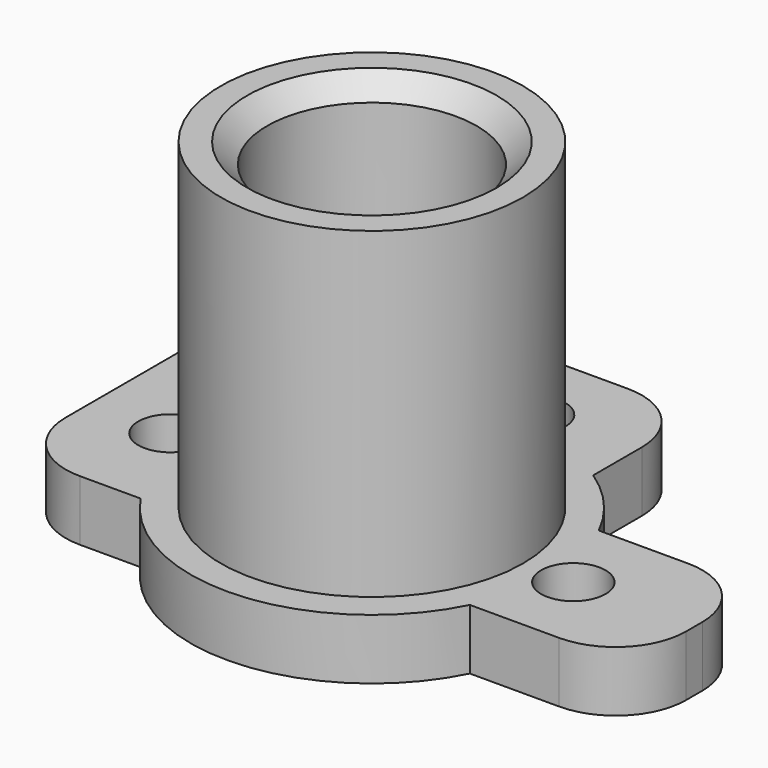
from build123d import *

# Parameters (mm, degrees)
SKETCH_R        = 9
SKETCH_R_2      = 1.6
PAD_DEPTH       = 3
SKETCH001_R     = 7.5
SKETCH001_R_2   = 5.2
PAD001_DEPTH    = 16
SKETCH002_W     = 19
SKETCH002_H     = 19
PAD002_DEPTH    = 3
SKETCH003_R     = 1.6
POCKET_DEPTH    = 3.001
SKETCH004_W     = 11
SKETCH004_H     = 8
PAD003_DEPTH    = 3
SKETCH005_R     = 1.6
POCKET001_DEPTH = 3.001
SKETCH007_R     = 5.2
SKETCH007_R_2   = 1.6
PAD004_DEPTH    = 4
SKETCH008_R     = 5.2
POCKET002_DEPTH = 4
CHAMFER_SIZE    = 1
FILLET_R        = 3.5


with BuildPart() as part:
    # Sketch → Pad (new body)
    with BuildSketch(Plane.XY):
        Circle(SKETCH_R)
        Circle(SKETCH_R_2, mode=Mode.SUBTRACT)
    extrude(amount=PAD_DEPTH)

    # Sketch001 (on Face4 of Pad) → Pad001 (join)
    with BuildSketch(Plane.XY.offset(3)):
        Circle(SKETCH001_R)
        Circle(SKETCH001_R_2, mode=Mode.SUBTRACT)
    extrude(amount=PAD001_DEPTH)

    # Sketch002 (on Face2 of Pad001) → Pad002 (join)
    with BuildSketch(Plane(origin=(0, 0, 0), x_dir=(1, 0, 0), z_dir=(0, 0, -1))):
        with Locations((-4.5, -4.5)):
            Rectangle(SKETCH002_W, SKETCH002_H)
    extrude(amount=-PAD002_DEPTH)

    # Sketch003 (on Face10 of Pad002) → Pocket (cut, through all)
    with BuildSketch(Plane.XY.offset(3)):
        Circle(SKETCH003_R)
    extrude(amount=-POCKET_DEPTH, mode=Mode.SUBTRACT)

    # Sketch004 (on Face16 of Pocket) → Pad003 (join)
    with BuildSketch(Plane.XY.offset(3)):
        with Locations((10.5, 0)):
            Rectangle(SKETCH004_W, SKETCH004_H)
    extrude(amount=-PAD003_DEPTH)

    # Sketch005 → Pocket001 (cut, through all)
    with BuildSketch(Plane.XY.offset(3)):
        with Locations((0, 10)):
            Circle(SKETCH005_R)
        with Locations((-10, 0)):
            Circle(SKETCH005_R)
        with Locations((10, 0)):
            Circle(SKETCH005_R)
    extrude(amount=-POCKET001_DEPTH, mode=Mode.SUBTRACT)

    # Sketch007 → Pad004 (join)
    with BuildSketch(Plane.XY.offset(3)):
        Circle(SKETCH007_R)
        Circle(SKETCH007_R_2, mode=Mode.SUBTRACT)
    extrude(amount=PAD004_DEPTH)

    # Sketch008 (on Face3 of Pad004) → Pocket002 (cut)
    with BuildSketch(Plane(origin=(0, 0, 0), x_dir=(1, 0, 0), z_dir=(0, 0, -1))):
        Circle(SKETCH008_R)
    extrude(amount=-POCKET002_DEPTH, mode=Mode.SUBTRACT)

    # Chamfer
    chamfer_edges = [part.edges().sort_by_distance(p)[0] for p in [
        (-5.2, 0, 19),
    ]]
    chamfer(chamfer_edges, length=CHAMFER_SIZE)

    # Fillet
    fillet_edges = [part.edges().sort_by_distance(p)[0] for p in [
        (5, 14, 1.5),
        (16, 4, 1.5),
        (-14, 14, 1.5),
        (-14, -5, 1.5),
        (16, -4, 1.5),
    ]]
    fillet(fillet_edges, radius=FILLET_R)


solid = part.part
